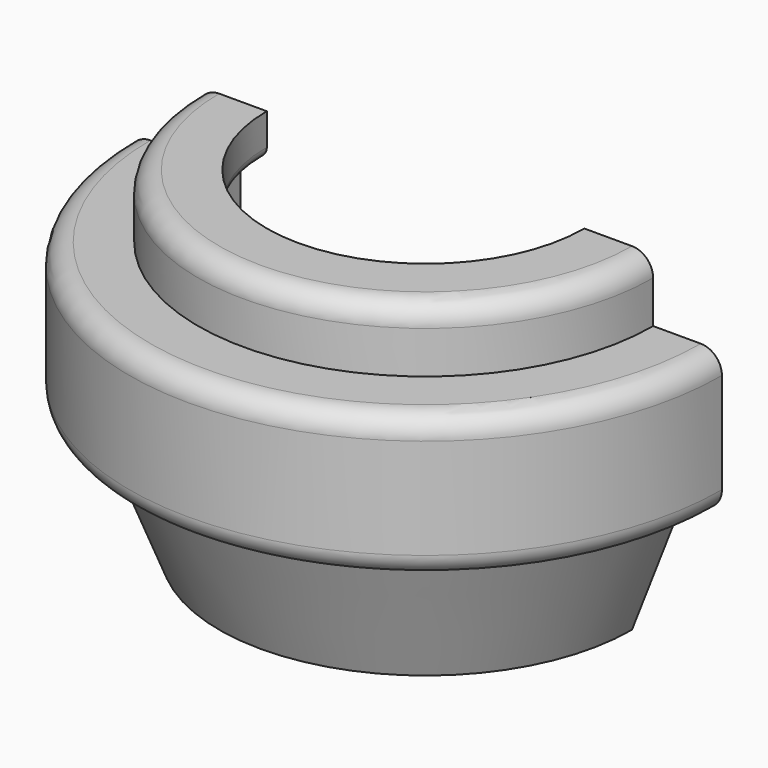
from build123d import *

# Parameters (mm, degrees)
F1_ANGLE = 180
F2_R     = 1
F3_R     = 2


with BuildPart() as f1:
    # F0 (on Front) → F1 (revolve)
    with BuildSketch(Plane.XZ):
        Polygon((21.5, 15.915055), (15, 15.915055), (15, 11.915055), (17.5, 11.915055), (17.5, 5.915055), (24, 5.915055), (24, 0.415055), (19.5, 0.415055), (19.5, -16), (24.362529, -3.584945), (28, -3.584945), (28, 9.915055), (21.5, 9.915055), align=None)
    revolve(axis=Axis((0, 0, -25.149144), (0, 0, -1)), revolution_arc=F1_ANGLE)

    # F2
    f2_edges = [f1.edges().sort_by_distance(p)[0] for p in [
        (0, -17.5, 11.915055),
        (0, -17.5, 5.915055),
        (0, -19.5, 0.415055),
        (0, -24, 5.915055),
        (0, -15, 11.915055),
        (0, -24, 0.415055),
    ]]
    fillet(f2_edges, radius=F2_R)

    # F3
    f3_edges = [f1.edges().sort_by_distance(p)[0] for p in [
        (0, -28, -3.584945),
        (0, -28, 9.915055),
        (0, -21.5, 15.915055),
    ]]
    fillet(f3_edges, radius=F3_R)


solid = f1.part
